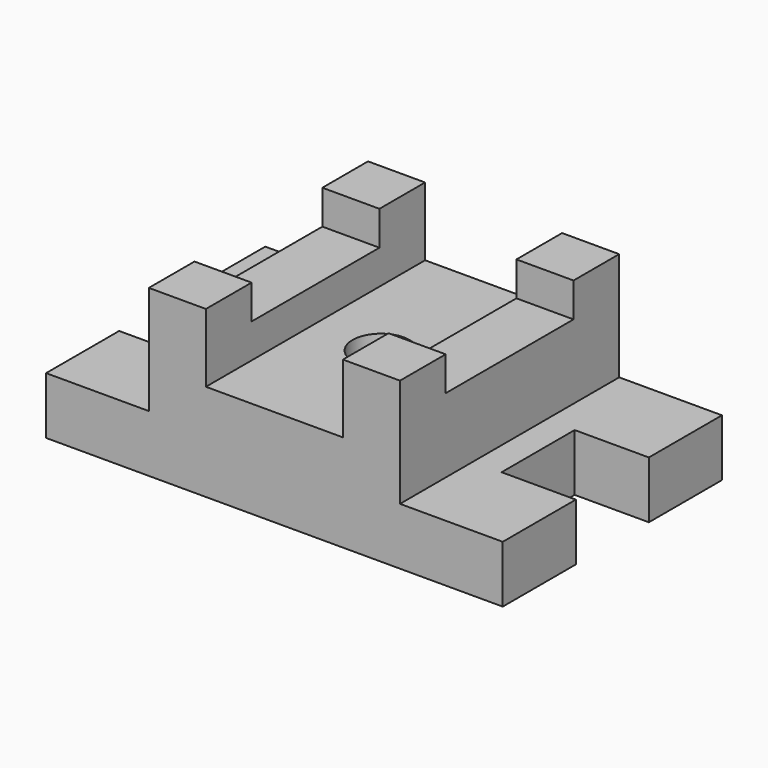
from build123d import *

# Parameters (mm, degrees)
F1_DEPTH = 31.75
F2_DEPTH = 31.75
F0_W     = 31.75
F0_H     = 31.75
F3_DEPTH = 92.075
F4_DEPTH = 92.075
F0_R     = 15.875
F5_DEPTH = 53.975
F0_H_2   = 88.9
F6_DEPTH = 73.025


with BuildPart() as f1:
    # F0 (on Top) → F1 (new body)
    with BuildSketch(Plane.XY):
        Polygon((-71.801791, 78.232048), (-128.951791, 78.232048), (-128.951791, 27.432048), (-87.676791, 27.432048), (-87.676791, -23.367952), (-128.951791, -23.367952), (-128.951791, -74.167952), (-71.801791, -74.167952), (-71.801791, -42.417952), (-71.801791, 46.482048), align=None)
    extrude(amount=F1_DEPTH)

    # F0 (on Top) → F3 (join)
    with BuildSketch(Plane.XY):
        with Locations((-55.926791, -58.292952)):
            Rectangle(F0_W, F0_H)
    extrude(amount=F3_DEPTH)



with BuildPart() as f2:
    # F0 (on Top) → F2 (new body)
    with BuildSketch(Plane.XY):
        Polygon((125.048209, 78.232048), (67.898209, 78.232048), (67.898209, 46.482048), (67.898209, -42.417952), (67.898209, -74.167952), (125.048209, -74.167952), (125.048209, -23.367952), (83.773209, -23.367952), (83.773209, 27.432048), (125.048209, 27.432048), align=None)
    extrude(amount=F2_DEPTH)


with BuildPart() as f1_1:
    add(f1.part)

    add(f2.part)  # F4 merges F2
    # F0 (on Top) → F4 (join)
    with BuildSketch(Plane.XY):
        with Locations((-55.926791, 62.357048)):
            Rectangle(F0_W, F0_H)
        with Locations((52.023209, 62.357048)):
            Rectangle(F0_W, F0_H)
        with Locations((52.023209, -58.292952)):
            Rectangle(F0_W, F0_H)
    extrude(amount=F4_DEPTH)



with BuildPart() as f5:
    # F0 (on Top) → F5 (new body)
    with BuildSketch(Plane.XY):
        Polygon((-1.951791, 78.232048), (-40.051791, 78.232048), (-40.051791, 46.482048), (-40.051791, -42.417952), (-40.051791, -74.167952), (-1.951791, -74.167952), (36.148209, -74.167952), (36.148209, -42.417952), (36.148209, 0), (36.148209, 46.482048), (36.148209, 78.232048), align=None)
        with Locations((-1.951791, 0)):
            Circle(F0_R, mode=Mode.SUBTRACT)
    extrude(amount=F5_DEPTH)


with BuildPart() as f1_2:
    add(f1_1.part)

    add(f5.part)  # F6 merges F5
    # F0 (on Top) → F6 (join)
    with BuildSketch(Plane.XY):
        with Locations((-55.926791, 2.032048)):
            Rectangle(F0_W, F0_H_2)
        Polygon((67.898209, 46.482048), (36.148209, 46.482048), (36.148209, 0), (36.148209, -42.417952), (67.898209, -42.417952), align=None)
    extrude(amount=F6_DEPTH)


solid = f1_2.part
